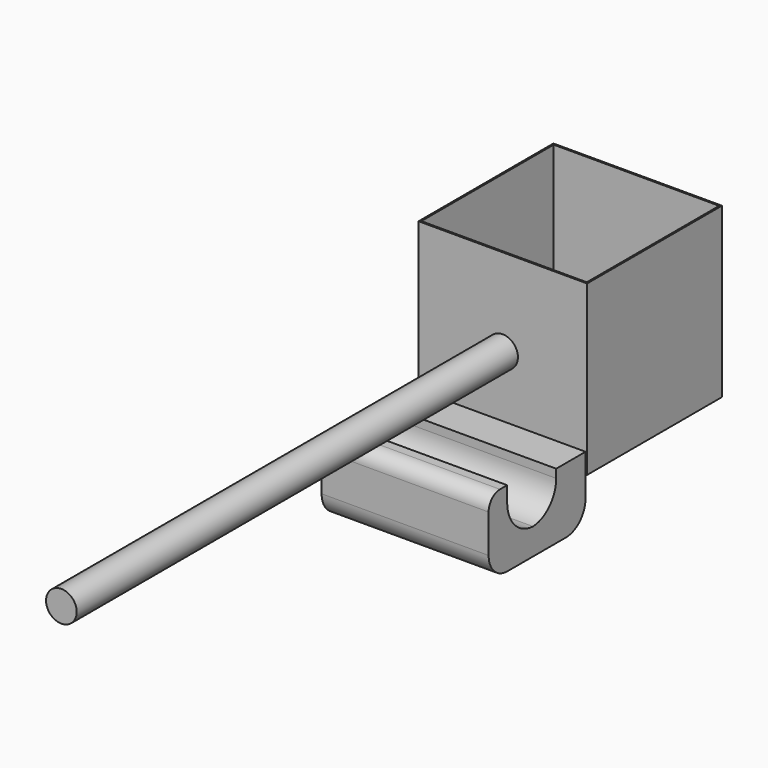
from build123d import *

# Parameters (mm, degrees)
F0_W     = 279.4
F0_H     = 279.4
F1_DEPTH = 279.4
F2_T     = -2.54
F3_R     = 25.4
F4_DEPTH = 914.4
F6_START = -2.54
F6_DEPTH = 276.86


with BuildPart() as f1:
    # F0 (on Right) → F1 (new body)
    with BuildSketch(Plane.YZ):
        with Locations((-8.1293592229, 5.2310257389)):
            Rectangle(F0_W, F0_H)
    extrude(amount=F1_DEPTH)

    # F2
    f2_openings = [f1.faces().sort_by_distance(p)[0] for p in [
        (139.7, -8.129359, 144.931026),
    ]]
    offset(amount=F2_T, openings=f2_openings)

    # F3 (on face) → F4 (join)
    with BuildSketch(Plane.XZ.offset(147.8293592229)):
        with Locations((139.3031475793, 0)):
            Circle(F3_R)
    extrude(amount=F4_DEPTH)


with BuildPart() as f6:
    # F5 (on face) → F6 (new body)
    with BuildSketch(Plane.YZ.offset(279.4).offset(F6_START)):
        with BuildLine():
            Line((-147.8293592229, -169.2097009663), (-147.8293592229, -101.434879005))
            Line((-147.8293592229, -101.434879005), (-208.6994263172, -101.434879005))
            Line((-208.6994263172, -101.434879005), (-208.6994263172, -115.5619577885))
            ThreePointArc((-208.6994263172, -115.5619577885), (-222.5612139186, -150.4361382777), (-256.5816493407, -166.278095038))
            ThreePointArc((-256.5816493407, -166.278095038), (-294.7385959673, -148.6185419879), (-310.2994263172, -109.5586783345))
            Line((-310.2994263172, -109.5586783345), (-310.2994263172, -84.2093378305))
            Line((-310.2994263172, -84.2093378305), (-325.1862112998, -84.2093378305))
            ThreePointArc((-325.1862112998, -84.2093378305), (-341.8311267942, -91.1038875729), (-348.7256765366, -107.7488030673))
            Line((-348.7256765366, -107.7488030673), (-348.7256765366, -171.1432021282))
            ThreePointArc((-348.7256765366, -171.1432021282), (-337.3189046725, -198.6815854653), (-309.7805213354, -210.0883573294))
            Line((-309.7805213354, -210.0883573294), (-188.708015586, -210.0883573294))
            ThreePointArc((-188.708015586, -210.0883573294), (-159.8024404659, -198.1152760864), (-147.8293592229, -169.2097009663))
        make_face()
        with BuildLine():
            ThreePointArc((-259.4994263172, -166.3619577885), (-258.0399353575, -166.3409877727), (-256.5816493407, -166.278095038))
            ThreePointArc((-256.5816493407, -166.278095038), (-255.0394678359, -166.3409882303), (-253.4961468632, -166.3619577885))
            Line((-253.4961468632, -166.3619577885), (-259.4994263172, -166.3619577885))
        make_face(mode=Mode.SUBTRACT)
        with BuildLine():
            ThreePointArc((-253.4961468632, -166.3619577885), (-255.0394678359, -166.3409882303), (-256.5816493407, -166.278095038))
            ThreePointArc((-256.5816493407, -166.278095038), (-258.0399353575, -166.3409877727), (-259.4994263172, -166.3619577885))
            Line((-259.4994263172, -166.3619577885), (-253.4961468632, -166.3619577885))
        make_face()
    extrude(amount=-F6_DEPTH)


solid = Compound([f1.part, f6.part])
